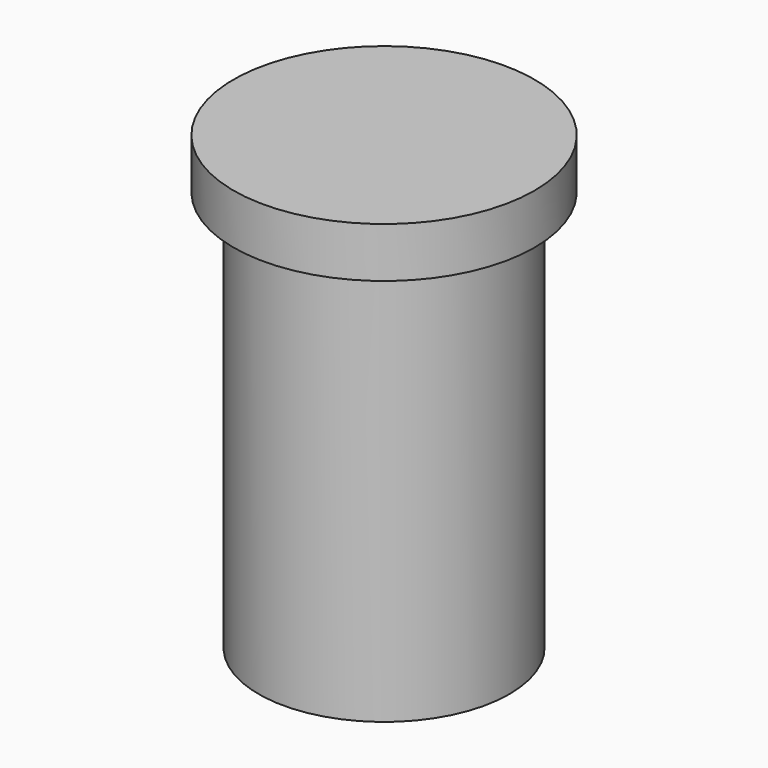
from build123d import *

# Parameters (mm, degrees)
SKETCH_R     = 25
PAD_DEPTH    = 80
SKETCH001_R  = 30
PAD001_DEPTH = 10


with BuildPart() as part:
    # Sketch → Pad (new body)
    with BuildSketch(Plane.XY):
        Circle(SKETCH_R)
    extrude(amount=PAD_DEPTH)

    # Sketch001 (on Face3 of Pad) → Pad001 (join)
    with BuildSketch(Plane.XY.offset(80)):
        Circle(SKETCH001_R)
    extrude(amount=PAD001_DEPTH)


solid = part.part
